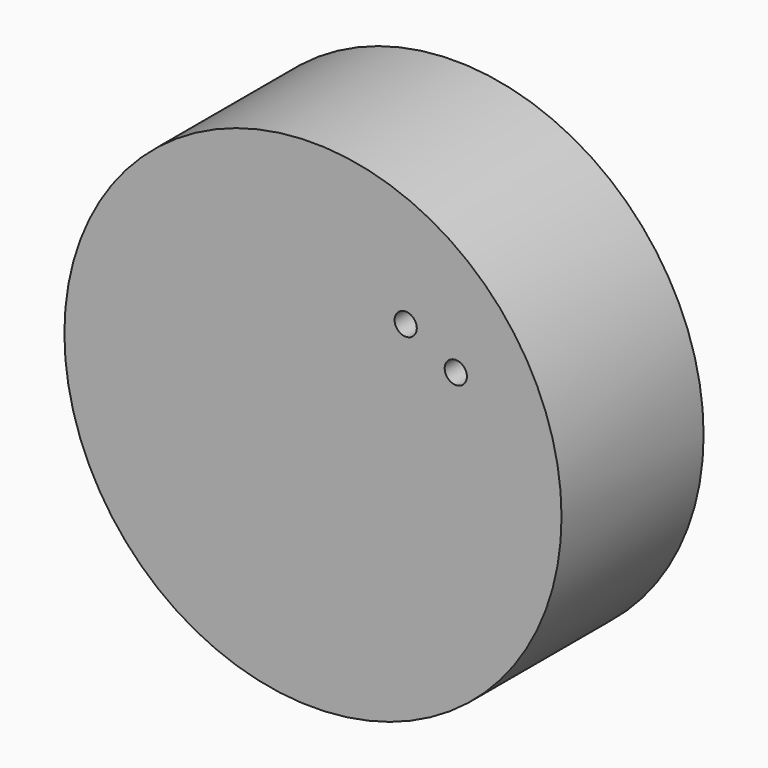
from build123d import *

# Parameters (mm, degrees)
F0_R     = 71.101991
F1_DEPTH = 50.8
F3_D     = 6.35


with BuildPart() as f1:
    # F0 (on Front) → F1 (new body)
    with BuildSketch(Plane.XZ):
        Circle(F0_R)
    extrude(amount=F1_DEPTH)

    # F3 (through all)
    with Locations(Plane(origin=(0, 0, 0), x_dir=(-1, 0, 0), z_dir=(0, 1, 0))):
        with Locations((-40.853664, 26.511227), (-26.523957, 34.036306)):
            Hole(F3_D / 2)


solid = f1.part
